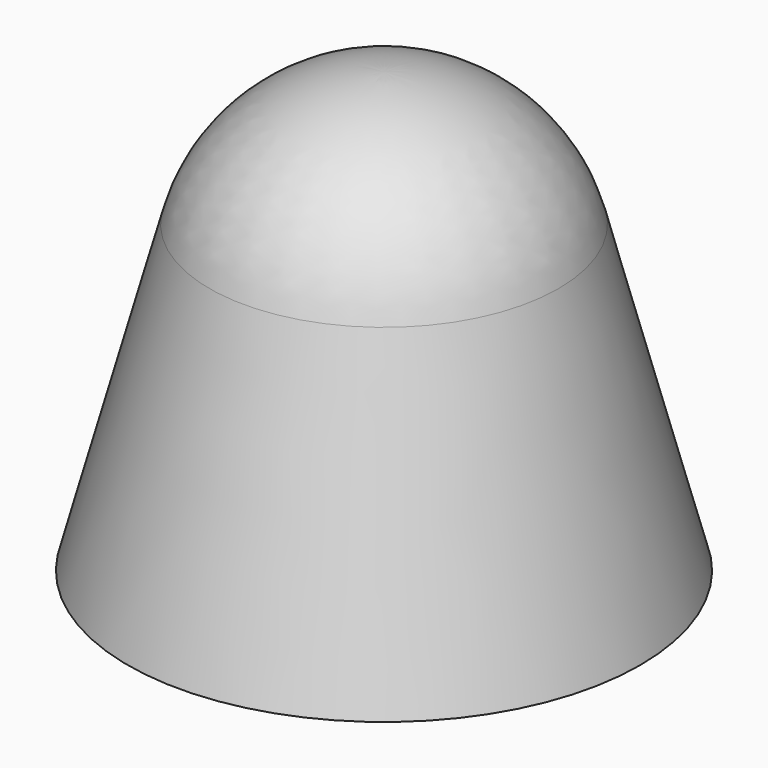
from build123d import *

# Parameters (mm, degrees)
F2_T = -0.8


with BuildPart() as f1:
    # F0 (on Front) → F1 (revolve)
    with BuildSketch(Plane.XZ):
        with BuildLine():
            Line((-3.38074, 0.905867), (-4.963213, -5))
            Line((-4.963213, -5), (0, -5))
            Line((0, -5), (0, 3.5))
            ThreePointArc((0, 3.5), (-2.130665, 2.776737), (-3.38074, 0.905867))
        make_face()
    revolve(axis=Axis((0, 0, -0.75), (0, 0, -1)))

    # F2
    f2_openings = [f1.faces().sort_by_distance(p)[0] for p in [
        (0, 0, -5),
    ]]
    offset(amount=F2_T, openings=f2_openings)


solid = f1.part
